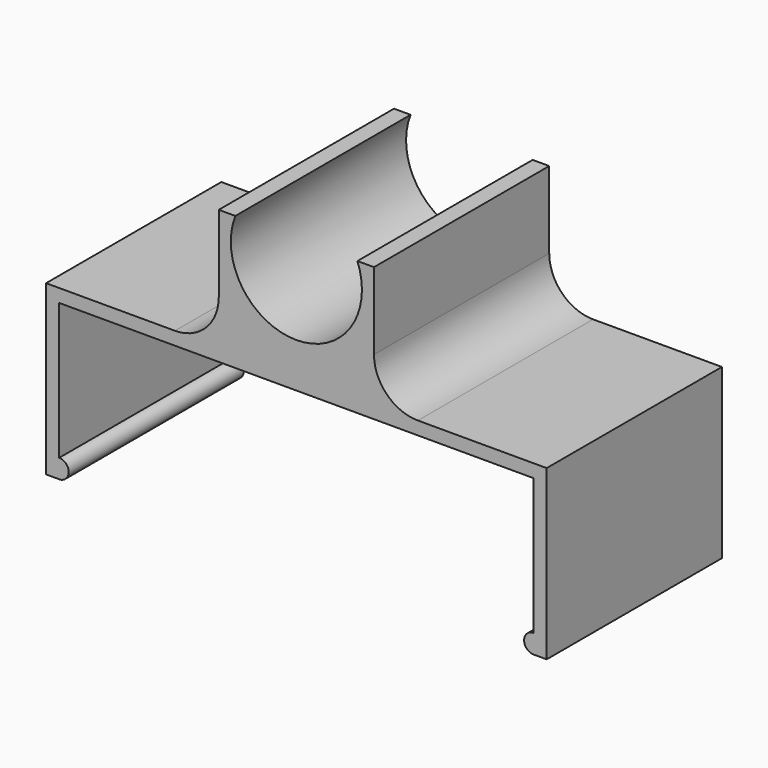
from build123d import *

# Parameters (mm, degrees)
F1_DEPTH = 12.7
F3_DEPTH = 25.4
F5_W     = 18
F5_H     = 25.4
F6_DEPTH = 14
F8_DEPTH = 25.401
F9_R     = 5.08


with BuildPart() as f1:
    # F0 (on Front) → F1 (new body, symmetric)
    with BuildSketch(Plane.XZ):
        Polygon((27.5, 18), (27.5, 0), (29.024, 0), (29.024, 19.524), (0, 19.524), (-29.024, 19.524), (-29.024, 0), (-27.5, 0), (-27.5, 18), (0, 18), align=None)
    extrude(amount=F1_DEPTH, both=True)

    # F2 (on face) → F3 (join, through all)
    with BuildSketch(Plane.XZ.offset(12.7)):
        with BuildLine():
            Line((-27.5, 2.1935291588), (-27.5, 0))
            ThreePointArc((-27.5, 0), (-26.4032354206, 1.0967645794), (-27.5, 2.1935291588))
        make_face()
    extrude(amount=-F3_DEPTH)

    # F4: F1 across plane


with BuildPart() as f1_1:
    add(f1.part)
    add(f1.part.mirror(Plane.YZ))

    # F5 (on face) → F6 (join)
    with BuildSketch(Plane.XY.offset(19.524)):
        Rectangle(F5_W, F5_H)
    extrude(amount=F6_DEPTH)

    # F7 (on face) → F8 (cut, through all)
    with BuildSketch(Plane.XZ.offset(12.7)):
        with BuildLine():
            ThreePointArc((-7.0774375942, 33.524), (-1.409161858, 23.2863288576), (7.6, 30.7545457035))
            ThreePointArc((7.6, 30.7545457035), (7.4682168459, 32.1637075615), (7.0774375942, 33.524))
            Line((7.0774375942, 33.524), (-7.0774375942, 33.524))
        make_face()
    extrude(amount=-F8_DEPTH, mode=Mode.SUBTRACT)

    # F9
    f9_edges = [f1_1.edges().sort_by_distance(p)[0] for p in [
        (9, 0, 19.524),
        (-9, 0, 19.524),
    ]]
    fillet(f9_edges, radius=F9_R)


solid = f1_1.part
